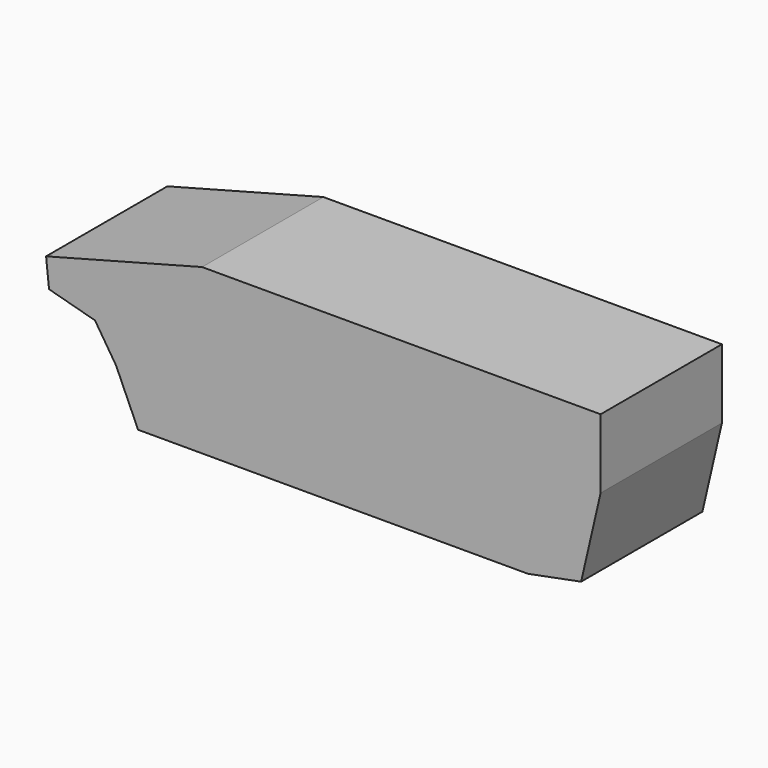
from build123d import *

# Parameters (mm, degrees)
F1_DEPTH = 70.000114


with BuildPart() as f1:
    # F0 (on Front) → F1 (new body)
    with BuildSketch(Plane.XZ):
        Polygon((140.789584, 39.61827), (-43.210302, 39.61827), (-115.23099, 20.556154), (-113.87212, 7.62737), (140.789584, 7.618334), align=None)
        Polygon((131.79156, -31.356391), (140.789584, 7.618334), (-113.87212, 7.62737), (-92.641751, 1.859206), (-82.917431, -13.287979), (-72.749014, -36.126616), (107.25088, -36.126616), align=None)
    extrude(amount=F1_DEPTH)


solid = f1.part
